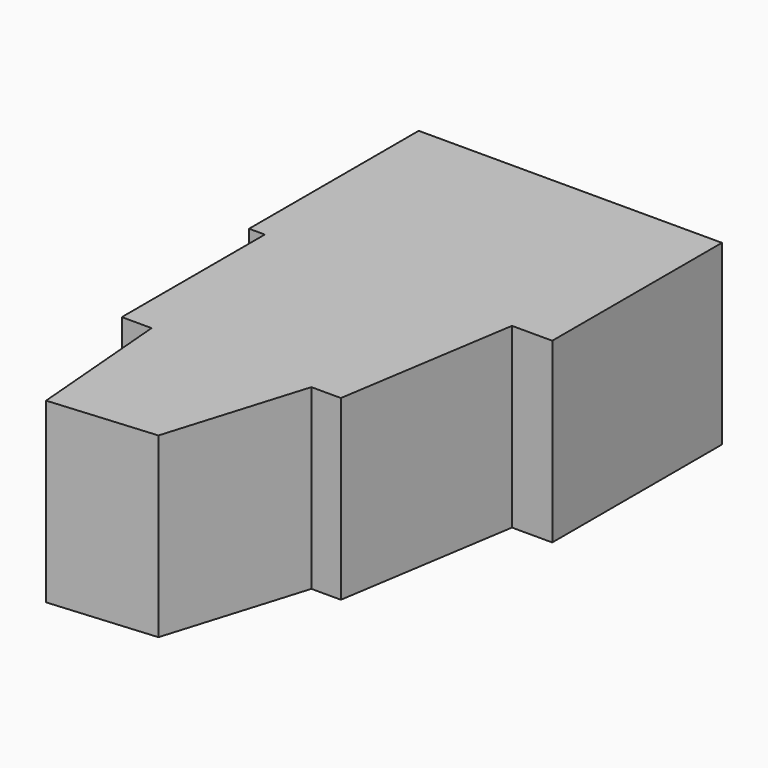
from build123d import *

# Parameters (mm, degrees)
F1_DEPTH = 30.48


with BuildPart() as f1:
    # F0 (on Top) → F1 (new body)
    with BuildSketch(Plane.XY):
        Polygon((-32.288667, -15.490659), (-59.70671, -15.490659), (-57.601184, -40.756974), (-39.528311, -39.250901), align=None)
        Polygon((-22.408817, 15.189869), (-64.820133, 15.189869), (-64.820133, -15.490659), (-59.70671, -15.490659), (-32.288667, -15.490659), (-27.221447, -15.490659), align=None)
        Polygon((-67.527235, 51.585395), (-67.527235, 15.189869), (-64.820133, 15.189869), (-22.408817, 15.189869), (-15.490659, 15.189869), (-15.490659, 51.585395), align=None)
    extrude(amount=F1_DEPTH)


solid = f1.part
